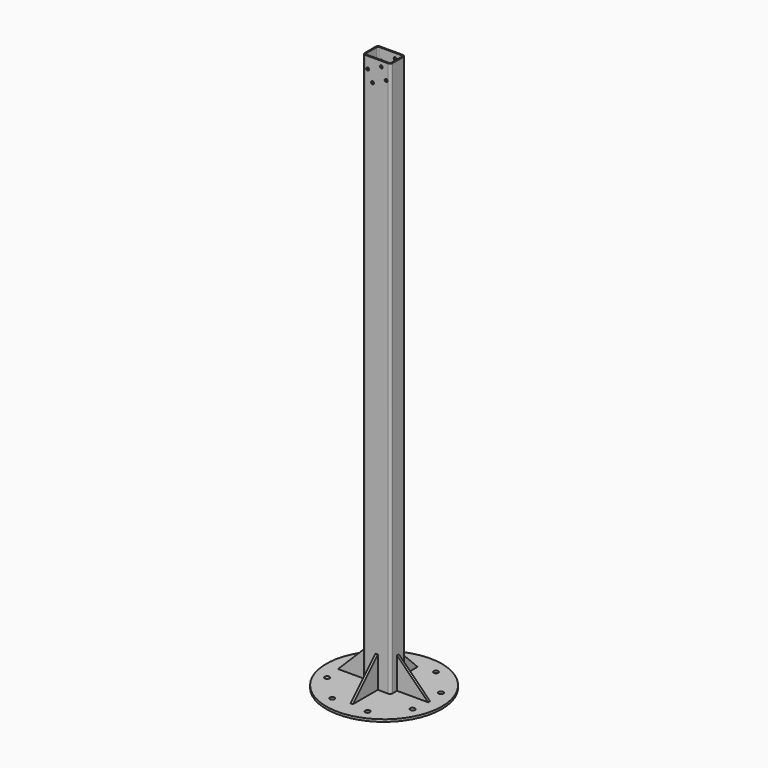
from build123d import *

# Parameters (mm, degrees)
F0_R      = 250
F0_R_2    = 10.25
F1_DEPTH  = 10
F3_DEPTH  = 2400
F5_DEPTH  = 5
F7_DEPTH  = 5
F10_R     = 6.25
F11_DEPTH = 290.001


with BuildPart() as f1:
    # F0 (on Top) → F1 (new body)
    with BuildSketch(Plane.XY):
        Circle(F0_R)
        with Locations((-76.536686, -184.775907)):
            Circle(F0_R_2, mode=Mode.SUBTRACT)
        with Locations((-184.775907, -76.536686)):
            Circle(F0_R_2, mode=Mode.SUBTRACT)
        with Locations((76.536686, -184.775907)):
            Circle(F0_R_2, mode=Mode.SUBTRACT)
        with Locations((184.775907, -76.536686)):
            Circle(F0_R_2, mode=Mode.SUBTRACT)
        with Locations((-184.775907, 76.536686)):
            Circle(F0_R_2, mode=Mode.SUBTRACT)
        with Locations((-76.536686, 184.775907)):
            Circle(F0_R_2, mode=Mode.SUBTRACT)
        with Locations((184.775907, 76.536686)):
            Circle(F0_R_2, mode=Mode.SUBTRACT)
        with Locations((76.536686, 184.775907)):
            Circle(F0_R_2, mode=Mode.SUBTRACT)
    extrude(amount=F1_DEPTH)


with BuildPart() as f3:
    # F2 (on face) → F3 (new body)
    with BuildSketch(Plane.XY.offset(10)):
        with BuildLine():
            ThreePointArc((60, 30), (57.071068, 37.071068), (50, 40))
            Line((50, 40), (-50, 40))
            ThreePointArc((-50, 40), (-57.071068, 37.071068), (-60, 30))
            Line((-60, 30), (-60, -30))
            ThreePointArc((-60, -30), (-57.071068, -37.071068), (-50, -40))
            Line((-50, -40), (50, -40))
            ThreePointArc((50, -40), (57.071068, -37.071068), (60, -30))
            Line((60, -30), (60, 30))
        make_face()
        with BuildLine():
            ThreePointArc((50, 35), (53.535534, 33.535534), (55, 30))
            Line((55, 30), (55, -30))
            ThreePointArc((55, -30), (53.535534, -33.535534), (50, -35))
            Line((50, -35), (-50, -35))
            ThreePointArc((-50, -35), (-53.535534, -33.535534), (-55, -30))
            Line((-55, -30), (-55, 30))
            ThreePointArc((-55, 30), (-53.535534, 33.535534), (-50, 35))
            Line((-50, 35), (50, 35))
        make_face(mode=Mode.SUBTRACT)
    extrude(amount=F3_DEPTH)

    # F10 (on face) → F11 (cut, through all)
    with BuildSketch(Plane.XZ.offset(40)):
        with Locations((19.910006, 2387.470187)):
            Circle(F10_R)
        with Locations((-39, 2360)):
            Circle(F10_R)
        with Locations((-17.869087, 2314.684611)):
            Circle(F10_R)
        with Locations((41.040919, 2342.154798)):
            Circle(F10_R)
    extrude(amount=-F11_DEPTH, mode=Mode.SUBTRACT)


with BuildPart() as f5:
    # F4 (on Front) → F5 (new body, symmetric)
    with BuildSketch(Plane.XZ):
        Polygon((-60, 10), (-60, 145), (-195, 10), align=None)
    extrude(amount=F5_DEPTH, both=True)


with BuildPart() as f7:
    # F6 (on Right) → F7 (new body, symmetric)
    with BuildSketch(Plane.YZ):
        Polygon((-175, 10), (-40, 10), (-40, 145), align=None)
    extrude(amount=F7_DEPTH, both=True)


with BuildPart() as f8_1:
    # F8: instance of F7
    add(f7.part.mirror(Plane.XZ))


with BuildPart() as f9_1:
    # F9: instance of F5
    add(f5.part.mirror(Plane.YZ))


solid = Compound([f1.part, f3.part, f5.part, f7.part, f8_1.part, f9_1.part])
